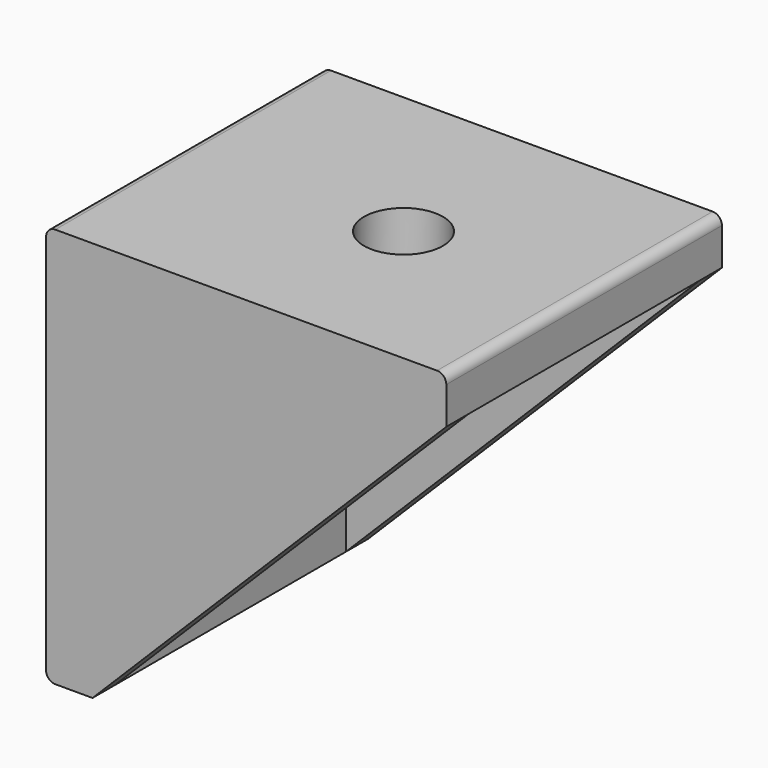
from build123d import *

# Parameters (mm, degrees)
PAD001_DEPTH    = 37.1
SKETCH_R        = 4.25
POCKET_DEPTH    = 43.101
SKETCH002_R     = 4.25
POCKET001_DEPTH = 43.101
PAD_DEPTH       = 3
PAD002_DEPTH    = 3


with BuildPart() as part:
    # Sketch001 → Pad001 (new body)
    with BuildSketch(Plane.XZ):
        with BuildLine():
            Line((1, 43.1), (42.1, 43.1))
            ThreePointArc((43.1, 42.1), (42.807107, 42.807107), (42.1, 43.1))
            Line((43.1, 38.1), (43.1, 42.1))
            Line((43.1, 38.1), (6, 38.1))
            ThreePointArc((6, 38.1), (5.292893, 37.807107), (5, 37.1))
            Line((5, 37.1), (5, 0))
            Line((1, 0), (5, 0))
            ThreePointArc((0, 1), (0.292893, 0.292893), (1, 0))
            Line((0, 42.1), (0, 1))
            ThreePointArc((1, 43.1), (0.292893, 42.807107), (0, 42.1))
        make_face()
    extrude(amount=PAD001_DEPTH)

    # Sketch → Pocket (cut, through all)
    with BuildSketch(Plane.XY):
        with Locations((24.05, -19.05)):
            Circle(SKETCH_R)
    extrude(amount=POCKET_DEPTH, mode=Mode.SUBTRACT)

    # Sketch002 → Pocket001 (cut, through all)
    with BuildSketch(Plane.YZ):
        with Locations((-19.05, 19.05)):
            Circle(SKETCH002_R)
    extrude(amount=POCKET001_DEPTH, mode=Mode.SUBTRACT)

    # Sketch003 → Pad (join)
    with BuildSketch(Plane.XZ):
        Polygon((5, 0), (43.1, 38.1), (5, 38.1), align=None)
    extrude(amount=PAD_DEPTH)

    # Sketch004 → Pad002 (join)
    with BuildSketch(Plane.XZ.offset(34.1)):
        Polygon((5, 0), (43.1, 38.1), (5, 38.1), align=None)
    extrude(amount=PAD002_DEPTH)


solid = part.part
